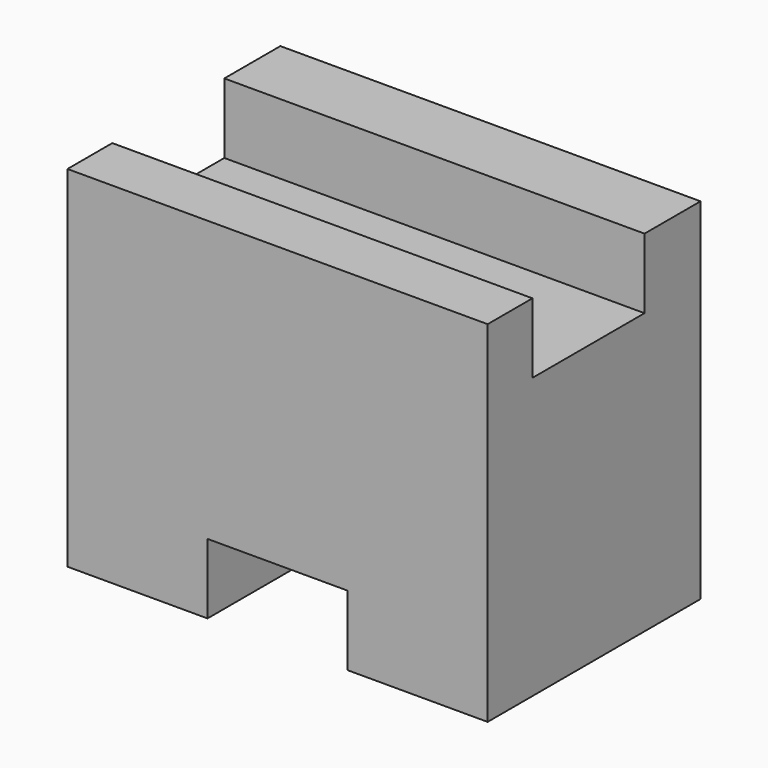
from build123d import *

# Parameters (mm, degrees)
F1_DEPTH = 38.1
F2_W     = 12.7
F2_H     = 6.35
F3_DEPTH = 25.4


with BuildPart() as f1:
    # F0 (on Right) → F1 (new body)
    with BuildSketch(Plane.YZ):
        Polygon((-11.43, 0), (0, 0), (12.7, 0), (12.7, 31.75), (6.35, 31.75), (6.35, 25.4), (-6.35, 25.4), (-6.35, 31.75), (-11.43, 31.75), align=None)
    extrude(amount=F1_DEPTH)

    # F2 (on face) → F3 (cut)
    with BuildSketch(Plane.XZ.offset(11.43)):
        with Locations((19.05, 3.175)):
            Rectangle(F2_W, F2_H)
    extrude(amount=-F3_DEPTH, mode=Mode.SUBTRACT)


solid = f1.part
